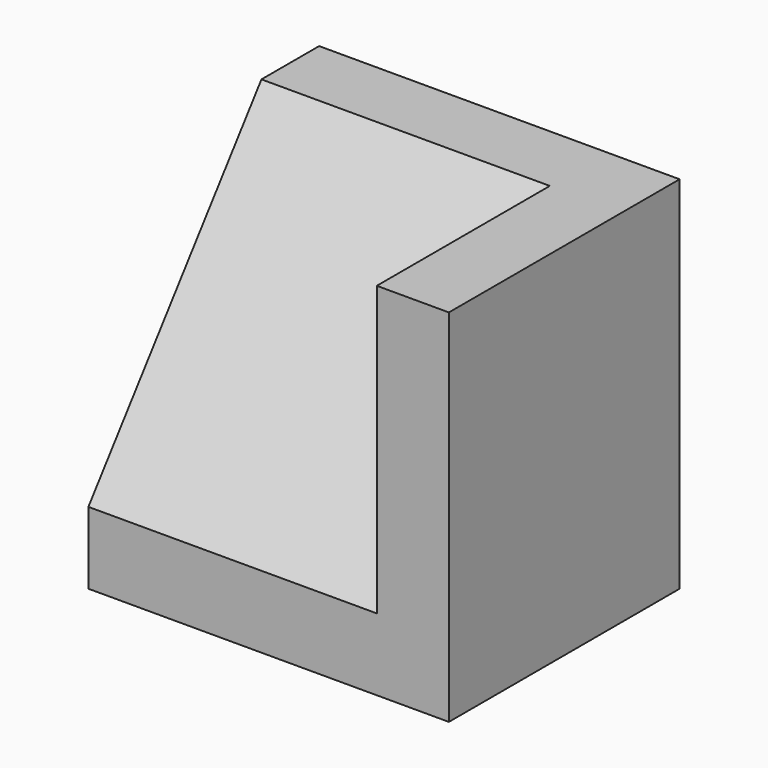
from build123d import *

# Parameters (mm, degrees)
F0_W     = 31.75
F0_H     = 31.75
F1_DEPTH = 25.4
F3_DEPTH = 25.4


with BuildPart() as f1:
    # F0 (on Front) → F1 (new body)
    with BuildSketch(Plane.XZ):
        with Locations((15.875, 15.875)):
            Rectangle(F0_W, F0_H)
    extrude(amount=F1_DEPTH)

    # F2 (on Right) → F3 (cut)
    with BuildSketch(Plane.YZ):
        Polygon((-25.4, 6.35), (-6.35, 31.75), (-25.4, 31.75), align=None)
    extrude(amount=F3_DEPTH, mode=Mode.SUBTRACT)


solid = f1.part
